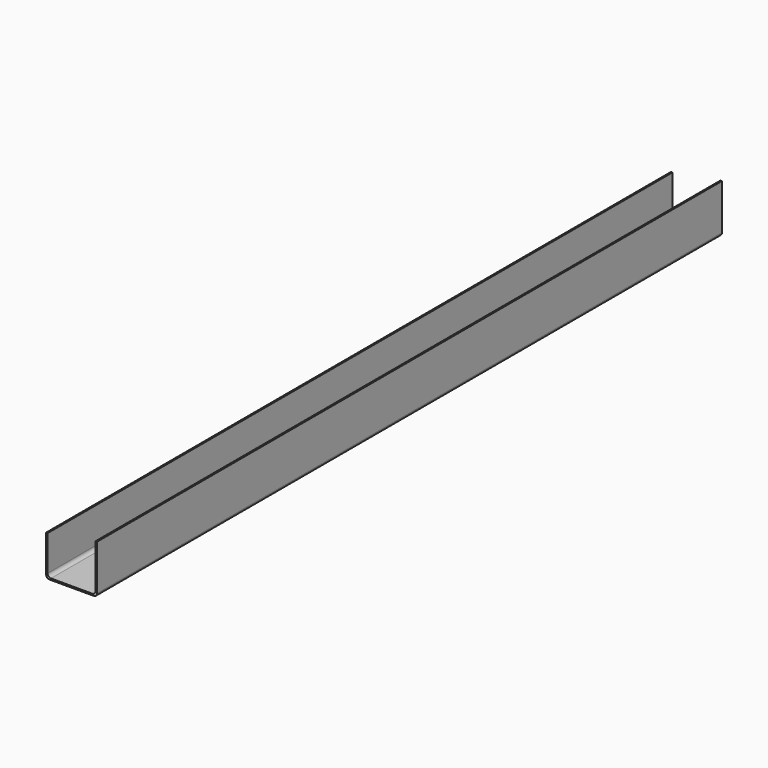
from build123d import *

# Parameters (mm, degrees)
F1_DEPTH = 2329


with BuildPart() as f1:
    # F0 (on Front) → F1 (new body)
    with BuildSketch(Plane.XZ):
        with BuildLine():
            ThreePointArc((0, 10), (2.928932, 2.928932), (10, 0))
            Line((10, 0), (142, 0))
            ThreePointArc((142, 0), (149.071068, 2.928932), (152, 10))
            Line((152, 10), (152, 145.4))
            Line((152, 145.4), (147.5, 145.4))
            Line((147.5, 145.4), (147.5, 14.5))
            ThreePointArc((147.5, 14.5), (144.571068, 7.428932), (137.5, 4.5))
            Line((137.5, 4.5), (14.5, 4.5))
            ThreePointArc((14.5, 4.5), (7.428932, 7.428932), (4.5, 14.5))
            Line((4.5, 14.5), (4.5, 120))
            Line((4.5, 120), (0, 120))
            Line((0, 120), (0, 10))
        make_face()
    extrude(amount=F1_DEPTH)


solid = f1.part
